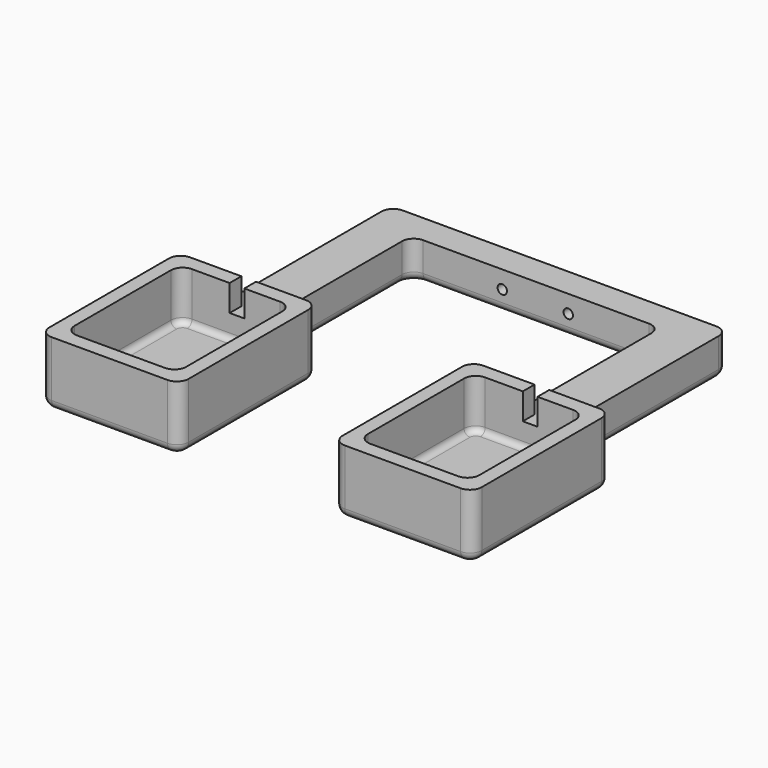
from build123d import *

# Parameters (mm, degrees)
SKETCH029_W               = 5
SKETCH029_H               = 10
SKETCH029_H_2             = 9
EXTRUDE028_DEPTH          = 10
CYLINDER056_R             = 1.6
CYLINDER056_DEPTH         = 20
CYLINDER057_R             = 1.6
CYLINDER057_DEPTH         = 20
CYLINDER058_R             = 1.6
CYLINDER058_DEPTH         = 20
CYLINDER055_R             = 1.6
CYLINDER055_DEPTH         = 20
BOX060_W                  = 38
BOX060_H                  = 17
BOX060_DEPTH              = 49
BOX061_W                  = 47.5
BOX061_H                  = 22
BOX061_DEPTH              = 59
BOX062_W                  = 38
BOX062_H                  = 17
BOX062_DEPTH              = 49
BOX063_W                  = 47.5
BOX063_H                  = 22
BOX063_DEPTH              = 59
BOX011_W                  = 115
BOX011_H                  = 13
BOX011_DEPTH              = 10
BOX012_W                  = 15
BOX012_H                  = 13
BOX012_DEPTH              = 60
BOX009_W                  = 15
BOX009_H                  = 13
BOX009_DEPTH              = 60
FILLET031_R               = 4
FILLET032_R               = 2
FILLET033_R               = 3
FILLET033_PLACEMENT_ANGLE = 270


with BuildPart() as extrude028:
    # Sketch029 → Extrude028 (new body)
    with BuildSketch(Plane.XZ.offset(48)):
        with Locations((19, 4)):
            Rectangle(SKETCH029_W, SKETCH029_H)
        with Locations((119, 4.5)):
            Rectangle(SKETCH029_W, SKETCH029_H_2)
    extrude(amount=EXTRUDE028_DEPTH)


with BuildPart() as extrude028_1:
    # Extrude028 placement: moved
    add(extrude028.part.moved(Location((0, 57, 45))))


with BuildPart() as cylinder056:
    # Cylinder056 → Cylinder056 (new body)
    with BuildSketch(Plane(origin=(80, 15, 109), x_dir=(1, 0, 0), z_dir=(0, 0, 1))):
        Circle(CYLINDER056_R)
    extrude(amount=CYLINDER056_DEPTH)


with BuildPart() as cylinder057:
    # Cylinder057 → Cylinder057 (new body)
    with BuildSketch(Plane(origin=(57.5, 32, 109), x_dir=(1, 0, 0), z_dir=(0, 0, 1))):
        Circle(CYLINDER057_R)
    extrude(amount=CYLINDER057_DEPTH)


with BuildPart() as cylinder058:
    # Cylinder058 → Cylinder058 (new body)
    with BuildSketch(Plane(origin=(80, 32, 109), x_dir=(1, 0, 0), z_dir=(0, 0, 1))):
        Circle(CYLINDER058_R)
    extrude(amount=CYLINDER058_DEPTH)


with BuildPart() as m3_cyl:
    # Cylinder055 → Cylinder055 (new body)
    with BuildSketch(Plane(origin=(57.5, 15, 109), x_dir=(1, 0, 0), z_dir=(0, 0, 1))):
        Circle(CYLINDER055_R)
    extrude(amount=CYLINDER055_DEPTH)

    # Fusion042: union Cylinder056, Cylinder057, Cylinder058
    add(cylinder056.part)
    add(cylinder057.part)
    add(cylinder058.part)


with BuildPart() as cube035:
    # Box060 → Box060 (new body)
    with BuildSketch(Plane(origin=(-0.34, 0, 0), x_dir=(1, 0, 0), z_dir=(0, 0, 1))):
        with Locations((19, 8.5)):
            Rectangle(BOX060_W, BOX060_H)
    extrude(amount=BOX060_DEPTH)


with BuildPart() as hollow_cubebase:
    # Box061 → Box061 (new body)
    with BuildSketch(Plane(origin=(-5, 0, -5), x_dir=(1, 0, 0), z_dir=(0, 0, 1))):
        with Locations((23.75, 11)):
            Rectangle(BOX061_W, BOX061_H)
    extrude(amount=BOX061_DEPTH)

    # Cut043: cut Cube035
    add(cube035.part, mode=Mode.SUBTRACT)


with BuildPart() as cube006:
    # Box062 → Box062 (new body)
    with BuildSketch(Plane(origin=(-0.34, 0, 0), x_dir=(1, 0, 0), z_dir=(0, 0, 1))):
        with Locations((19, 8.5)):
            Rectangle(BOX062_W, BOX062_H)
    extrude(amount=BOX062_DEPTH)


with BuildPart() as hollow_cubebase001:
    # Box063 → Box063 (new body)
    with BuildSketch(Plane(origin=(-5, 0, -5), x_dir=(1, 0, 0), z_dir=(0, 0, 1))):
        with Locations((23.75, 11)):
            Rectangle(BOX063_W, BOX063_H)
    extrude(amount=BOX063_DEPTH)

    # Cut044: cut Cube006
    add(cube006.part, mode=Mode.SUBTRACT)


with BuildPart() as hollow_cubebase001_1:
    # Cut044 placement: moved
    add(hollow_cubebase001.part.moved(Location((100, 0, 0))))


with BuildPart() as base001:
    # Box011 → Box011 (new body)
    with BuildSketch(Plane(origin=(11.5, 9, 114), x_dir=(1, 0, 0), z_dir=(0, 0, 1))):
        with Locations((57.5, 6.5)):
            Rectangle(BOX011_W, BOX011_H)
    extrude(amount=BOX011_DEPTH)


with BuildPart() as stand002:
    # Box012 → Box012 (new body)
    with BuildSketch(Plane(origin=(111.5, 9, 54), x_dir=(1, 0, 0), z_dir=(0, 0, 1))):
        with Locations((7.5, 6.5)):
            Rectangle(BOX012_W, BOX012_H)
    extrude(amount=BOX012_DEPTH)


with BuildPart() as gpsholder005:
    # Box009 → Box009 (new body)
    with BuildSketch(Plane(origin=(11.5, 9, 54), x_dir=(1, 0, 0), z_dir=(0, 0, 1))):
        with Locations((7.5, 6.5)):
            Rectangle(BOX009_W, BOX009_H)
    extrude(amount=BOX009_DEPTH)

    # Fusion005: union base001, stand002
    add(base001.part)
    add(stand002.part)

    # Fusion041: union Hollow_CubeBase, Hollow_CubeBase001
    add(hollow_cubebase.part)
    add(hollow_cubebase001_1.part)

    # Cut045: cut m3_cyl
    add(m3_cyl.part, mode=Mode.SUBTRACT)

    # Cut046: cut Extrude028
    add(extrude028_1.part, mode=Mode.SUBTRACT)

    # Fillet031
    fillet031_edges = [gpsholder005.edges().sort_by_distance(p)[0] for p in [
        (11.5, 15.5, 124),
        (126.5, 15.5, 124),
        (11.5, 15.5, 54),
        (126.5, 15.5, 54),
        (-5, 11, 54),
        (111.5, 15.5, 114),
        (111.5, 15.5, 54),
        (26.5, 15.5, 114),
        (26.5, 15.5, 54),
        (42.5, 11, 54),
        (95, 11, 54),
        (142.5, 11, 54),
        (-5, 11, -5),
        (42.5, 11, -5),
        (95, 11, -5),
        (142.5, 11, -5),
        (-0.34, 8.5, 49),
        (37.66, 8.5, 49),
        (99.66, 8.5, 49),
        (137.66, 8.5, 49),
        (37.66, 8.5, 0),
        (-0.34, 8.5, 0),
        (137.66, 8.5, 0),
        (99.66, 8.5, 0),
    ]]
    fillet(fillet031_edges, radius=FILLET031_R)

    # Fillet032
    fillet032_edges = [gpsholder005.edges().sort_by_distance(p)[0] for p in [
        (18.66, 17, 49),
        (118.66, 17, 49),
        (36.488427, 17, 47.828427),
        (37.66, 17, 24.5),
        (36.488427, 17, 1.171573),
        (18.66, 17, 0),
        (0.831573, 17, 47.828427),
        (0.831573, 17, 1.171573),
        (-0.34, 17, 24.5),
        (136.488427, 17, 47.828427),
        (137.66, 17, 24.5),
        (136.488427, 17, 1.171573),
        (118.66, 17, 0),
        (100.831573, 17, 47.828427),
        (100.831573, 17, 1.171573),
        (99.66, 17, 24.5),
    ]]
    fillet(fillet032_edges, radius=FILLET032_R)

    # Fillet033
    fillet033_edges = [gpsholder005.edges().sort_by_distance(p)[0] for p in [
        (42.5, 22, 24.5),
        (41.328427, 22, -3.828427),
        (41.328427, 22, 52.828427),
        (18.75, 22, -5),
        (34.5, 22, 54),
        (-3.828427, 22, -3.828427),
        (-5, 22, 24.5),
        (-3.828427, 22, 52.828427),
        (3.25, 22, 54),
        (9.5, 22, 54),
        (28.5, 22, 54),
        (19, 22, 54),
        (103.25, 22, 54),
        (134.5, 22, 54),
        (128.5, 22, 54),
        (119, 22, 54),
        (109.5, 22, 54),
        (118.75, 22, -5),
        (96.171573, 22, -3.828427),
        (141.328427, 22, -3.828427),
        (95, 22, 24.5),
        (142.5, 22, 24.5),
        (96.171573, 22, 52.828427),
        (141.328427, 22, 52.828427),
    ]]
    fillet(fillet033_edges, radius=FILLET033_R)


with BuildPart() as gpsholder005_1:
    # Fillet033 placement: moved
    add(gpsholder005.part.moved(Location((-68.75, 0, 205))).rotate(Axis((-68.75, 0, 205), (1, 0, 0)), FILLET033_PLACEMENT_ANGLE))


solid = gpsholder005_1.part
